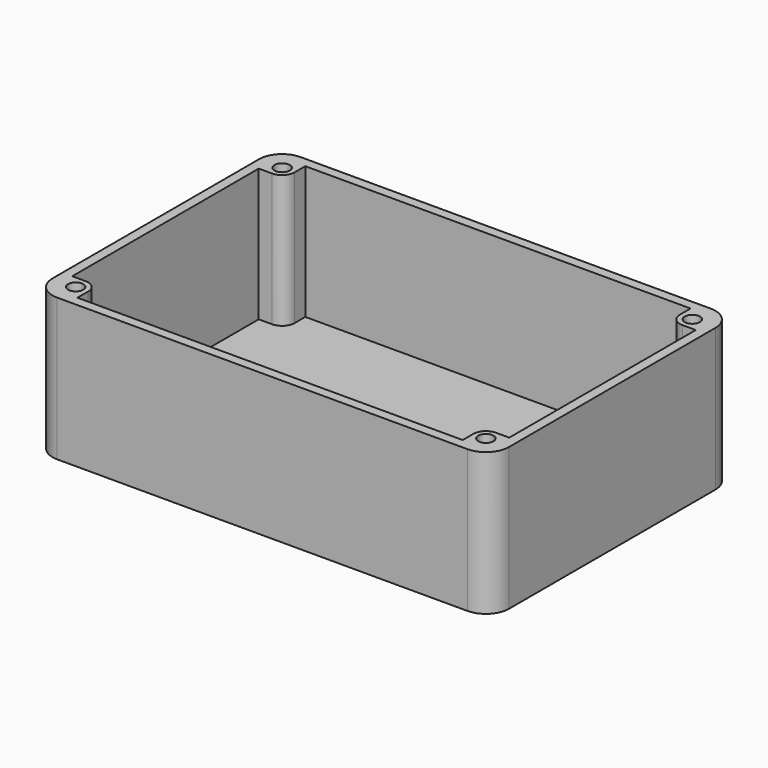
from build123d import *

# Parameters (mm, degrees)
F2_R     = 1.25
F3_DEPTH = 1.6
F4_DEPTH = 21.8


with BuildPart() as f3:
    # F2 (on Top) → F3 (new body)
    with BuildSketch(Plane.XY):
        with BuildLine():
            Line((0, 25), (-33.7, 25))
            ThreePointArc((-33.7, 25), (-36.3870057685, 23.8870057685), (-37.5, 21.2))
            Line((-37.5, 21.2), (-37.5, 0))
            Line((-37.5, 0), (-37.5, -21.2))
            ThreePointArc((-37.5, -21.2), (-36.3870057685, -23.8870057685), (-33.7, -25))
            Line((-33.7, -25), (0, -25))
            Line((0, -25), (33.7, -25))
            ThreePointArc((33.7, -25), (36.3870057685, -23.8870057685), (37.5, -21.2))
            Line((37.5, -21.2), (37.5, 0))
            Line((37.5, 0), (37.5, 21.2))
            ThreePointArc((37.5, 21.2), (36.3870057685, 23.8870057685), (33.7, 25))
            Line((33.7, 25), (0, 25))
        make_face()
        with Locations((-33.7, -21.2)):
            Circle(F2_R, mode=Mode.SUBTRACT)
        with Locations((33.7, -21.2)):
            Circle(F2_R, mode=Mode.SUBTRACT)
        with Locations((-33.7, 21.2)):
            Circle(F2_R, mode=Mode.SUBTRACT)
        with BuildLine():
            Line((-31.65, 23.4), (0, 23.4))
            Line((0, 23.4), (31.65, 23.4))
            Line((31.65, 23.4), (31.65, 21.2))
            ThreePointArc((31.65, 21.2), (32.2504310986, 19.7504310986), (33.7, 19.15))
            Line((33.7, 19.15), (35.9, 19.15))
            Line((35.9, 19.15), (35.9, 0))
            Line((35.9, 0), (35.9, -19.15))
            Line((35.9, -19.15), (33.7, -19.15))
            ThreePointArc((33.7, -19.15), (32.2504310986, -19.7504310986), (31.65, -21.2))
            Line((31.65, -21.2), (31.65, -23.4))
            Line((31.65, -23.4), (0, -23.4))
            Line((0, -23.4), (-31.65, -23.4))
            Line((-31.65, -23.4), (-31.65, -21.2))
            ThreePointArc((-31.65, -21.2), (-32.2504310986, -19.7504310986), (-33.7, -19.15))
            Line((-33.7, -19.15), (-35.9, -19.15))
            Line((-35.9, -19.15), (-35.9, 0))
            Line((-35.9, 0), (-35.9, 19.15))
            Line((-35.9, 19.15), (-33.7, 19.15))
            ThreePointArc((-33.7, 19.15), (-32.2504310986, 19.7504310986), (-31.65, 21.2))
            Line((-31.65, 21.2), (-31.65, 23.4))
        make_face(mode=Mode.SUBTRACT)
        with Locations((33.7, 21.2)):
            Circle(F2_R, mode=Mode.SUBTRACT)
        with Locations((-33.7, -21.2)):
            Circle(F2_R)
        with BuildLine():
            Line((31.65, 23.4), (0, 23.4))
            Line((0, 23.4), (-31.65, 23.4))
            Line((-31.65, 23.4), (-31.65, 21.2))
            ThreePointArc((-31.65, 21.2), (-32.2504310986, 19.7504310986), (-33.7, 19.15))
            Line((-33.7, 19.15), (-35.9, 19.15))
            Line((-35.9, 19.15), (-35.9, 0))
            Line((-35.9, 0), (-35.9, -19.15))
            Line((-35.9, -19.15), (-33.7, -19.15))
            ThreePointArc((-33.7, -19.15), (-32.2504310986, -19.7504310986), (-31.65, -21.2))
            Line((-31.65, -21.2), (-31.65, -23.4))
            Line((-31.65, -23.4), (0, -23.4))
            Line((0, -23.4), (31.65, -23.4))
            Line((31.65, -23.4), (31.65, -21.2))
            ThreePointArc((31.65, -21.2), (32.2504310986, -19.7504310986), (33.7, -19.15))
            Line((33.7, -19.15), (35.9, -19.15))
            Line((35.9, -19.15), (35.9, 0))
            Line((35.9, 0), (35.9, 19.15))
            Line((35.9, 19.15), (33.7, 19.15))
            ThreePointArc((33.7, 19.15), (32.2504310986, 19.7504310986), (31.65, 21.2))
            Line((31.65, 21.2), (31.65, 23.4))
        make_face()
        with Locations((33.7, -21.2)):
            Circle(F2_R)
        with Locations((33.7, 21.2)):
            Circle(F2_R)
        with Locations((-33.7, 21.2)):
            Circle(F2_R)
    extrude(amount=-F3_DEPTH)

    # F2 (on Top) → F4 (join)
    with BuildSketch(Plane.XY):
        with BuildLine():
            Line((0, 25), (-33.7, 25))
            ThreePointArc((-33.7, 25), (-36.3870057685, 23.8870057685), (-37.5, 21.2))
            Line((-37.5, 21.2), (-37.5, 0))
            Line((-37.5, 0), (-37.5, -21.2))
            ThreePointArc((-37.5, -21.2), (-36.3870057685, -23.8870057685), (-33.7, -25))
            Line((-33.7, -25), (0, -25))
            Line((0, -25), (33.7, -25))
            ThreePointArc((33.7, -25), (36.3870057685, -23.8870057685), (37.5, -21.2))
            Line((37.5, -21.2), (37.5, 0))
            Line((37.5, 0), (37.5, 21.2))
            ThreePointArc((37.5, 21.2), (36.3870057685, 23.8870057685), (33.7, 25))
            Line((33.7, 25), (0, 25))
        make_face()
        with Locations((-33.7, -21.2)):
            Circle(F2_R, mode=Mode.SUBTRACT)
        with Locations((33.7, -21.2)):
            Circle(F2_R, mode=Mode.SUBTRACT)
        with Locations((-33.7, 21.2)):
            Circle(F2_R, mode=Mode.SUBTRACT)
        with BuildLine():
            Line((-31.65, 23.4), (0, 23.4))
            Line((0, 23.4), (31.65, 23.4))
            Line((31.65, 23.4), (31.65, 21.2))
            ThreePointArc((31.65, 21.2), (32.2504310986, 19.7504310986), (33.7, 19.15))
            Line((33.7, 19.15), (35.9, 19.15))
            Line((35.9, 19.15), (35.9, 0))
            Line((35.9, 0), (35.9, -19.15))
            Line((35.9, -19.15), (33.7, -19.15))
            ThreePointArc((33.7, -19.15), (32.2504310986, -19.7504310986), (31.65, -21.2))
            Line((31.65, -21.2), (31.65, -23.4))
            Line((31.65, -23.4), (0, -23.4))
            Line((0, -23.4), (-31.65, -23.4))
            Line((-31.65, -23.4), (-31.65, -21.2))
            ThreePointArc((-31.65, -21.2), (-32.2504310986, -19.7504310986), (-33.7, -19.15))
            Line((-33.7, -19.15), (-35.9, -19.15))
            Line((-35.9, -19.15), (-35.9, 0))
            Line((-35.9, 0), (-35.9, 19.15))
            Line((-35.9, 19.15), (-33.7, 19.15))
            ThreePointArc((-33.7, 19.15), (-32.2504310986, 19.7504310986), (-31.65, 21.2))
            Line((-31.65, 21.2), (-31.65, 23.4))
        make_face(mode=Mode.SUBTRACT)
        with Locations((33.7, 21.2)):
            Circle(F2_R, mode=Mode.SUBTRACT)
    extrude(amount=F4_DEPTH)


solid = f3.part
